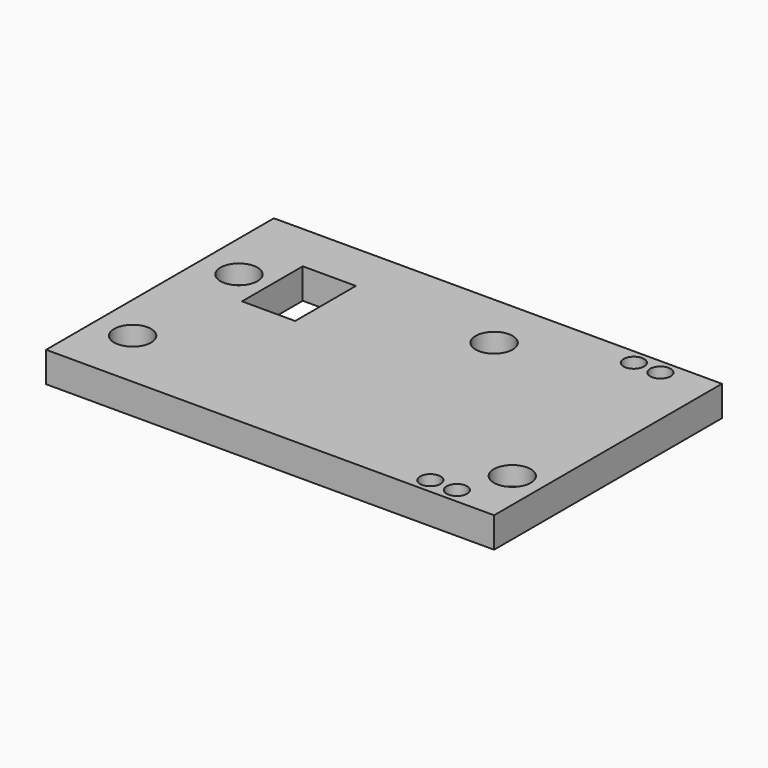
from build123d import *

# Parameters (mm, degrees)
F0_W           = 118
F0_H           = 75
F0_R           = 2.75
F0_R_2         = 1.6
F0_W_2         = 14
F0_H_2         = 20
F1_DEPTH       = 8
F3_D           = 5.5
F3_DEPTH       = 8
F3_CBORE_D     = 9.75
F3_CBORE_DEPTH = 5
F4_D           = 3.4
F4_DEPTH       = 8
F4_CBORE_D     = 5.4
F4_CBORE_DEPTH = 4


with BuildPart() as f1:
    # F0 (on Top) → F1 (new body)
    with BuildSketch(Plane.XY):
        Rectangle(F0_W, F0_H)
        with Locations((-49, -21.5)):
            Circle(F0_R, mode=Mode.SUBTRACT)
        with Locations((39, -33.5)):
            Circle(F0_R_2, mode=Mode.SUBTRACT)
        with Locations((46, -33.5)):
            Circle(F0_R_2, mode=Mode.SUBTRACT)
        with Locations((51, -21.5)):
            Circle(F0_R, mode=Mode.SUBTRACT)
        with Locations((-49, 13.5)):
            Circle(F0_R, mode=Mode.SUBTRACT)
        with Locations((-34, 14.5)):
            Rectangle(F0_W_2, F0_H_2, mode=Mode.SUBTRACT)
        with Locations((11, 22.5)):
            Circle(F0_R, mode=Mode.SUBTRACT)
        with Locations((39, 33.5)):
            Circle(F0_R_2, mode=Mode.SUBTRACT)
        with Locations((46, 33.5)):
            Circle(F0_R_2, mode=Mode.SUBTRACT)
    extrude(amount=F1_DEPTH)

    # F3
    with Locations(Plane.XY.offset(8)):
        with Locations((-49, 13.5), (11, 22.5), (51, -21.5), (-49, -21.5)):
            CounterBoreHole(F3_D / 2, F3_CBORE_D / 2, F3_CBORE_DEPTH, depth=F3_DEPTH)

    # F4
    with Locations(Plane.XY.offset(8)):
        with Locations((39, -33.5), (46, -33.5), (39, 33.5), (46, 33.5)):
            CounterBoreHole(F4_D / 2, F4_CBORE_D / 2, F4_CBORE_DEPTH, depth=F4_DEPTH)


solid = f1.part
